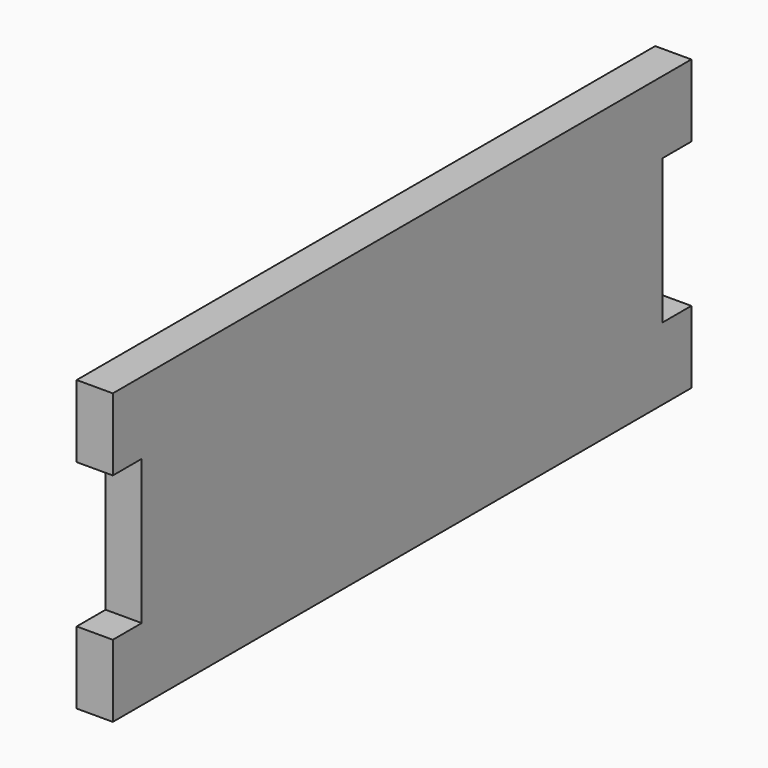
from build123d import *

# Parameters (mm, degrees)
F0_W     = 6.35
F0_H     = 6.35
F1_DEPTH = 6.35


with BuildPart() as f1:
    # F0 (on Right) → F1 (new body)
    with BuildSketch(Plane.YZ):
        with Locations((60.325, 22.225)):
            Rectangle(F0_W, F0_H)
        Polygon((57.15, 19.05), (57.15, 25.4), (-57.15, 25.4), (-57.15, 19.05), (-57.15, 12.7), (-57.15, -12.7), (-57.15, -19.05), (-57.15, -25.4), (57.15, -25.4), (57.15, -19.05), (57.15, -12.7), (57.15, 12.7), align=None)
        with Locations((60.325, 15.875)):
            Rectangle(F0_W, F0_H)
        with Locations((-60.325, 22.225)):
            Rectangle(F0_W, F0_H)
        with Locations((-60.325, 15.875)):
            Rectangle(F0_W, F0_H)
        with Locations((60.325, -15.875)):
            Rectangle(F0_W, F0_H)
        with Locations((-60.325, -15.875)):
            Rectangle(F0_W, F0_H)
        with Locations((60.325, -22.225)):
            Rectangle(F0_W, F0_H)
        with Locations((-60.325, -22.225)):
            Rectangle(F0_W, F0_H)
    extrude(amount=-F1_DEPTH)


solid = f1.part
